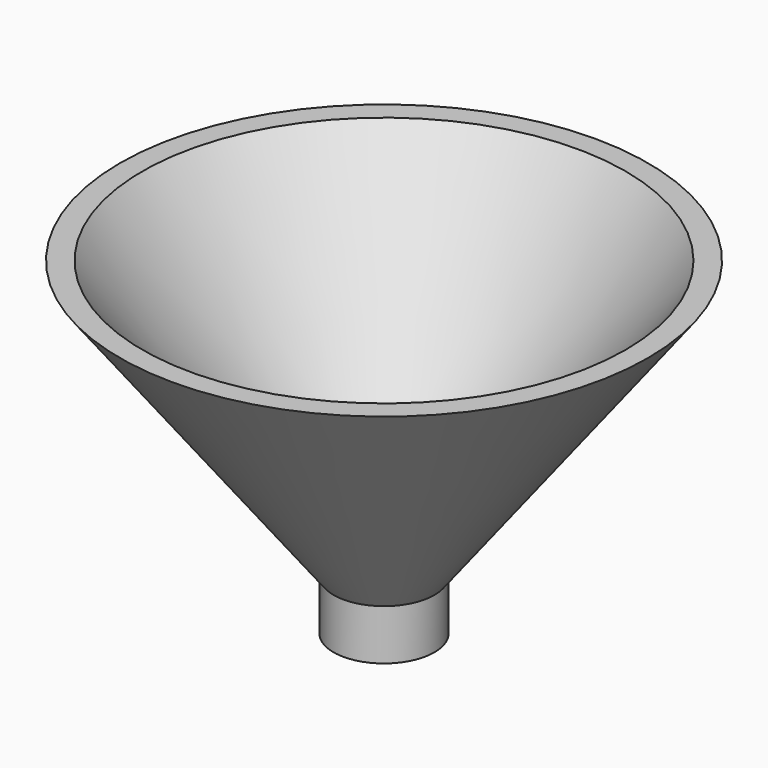
from build123d import *

# Parameters (mm, degrees)
F2_R     = 7.361667
F3_DEPTH = 25.4


with BuildPart() as f1:
    # F0 (on Front) → F1 (revolve)
    with BuildSketch(Plane.XZ):
        Polygon((37.713543, 47.45223), (6.587935, 6.396981), (-1.623115, 5.824117), (-1.623115, -6.015072), (6.587935, -6.015072), (6.587935, 2.195979), (41.341685, 47.45223), align=None)
    revolve(axis=Axis((-1.623115, 0, -0.095477), (0, 0, 1)))

    # F2 (on face) → F3 (cut)
    with BuildSketch(Plane(origin=(0, 0, -6.015072), x_dir=(1, 0, 0), z_dir=(0, 0, -1))):
        with Locations((-1.623115, 0)):
            Circle(F2_R)
    extrude(amount=-F3_DEPTH, mode=Mode.SUBTRACT)


solid = f1.part
